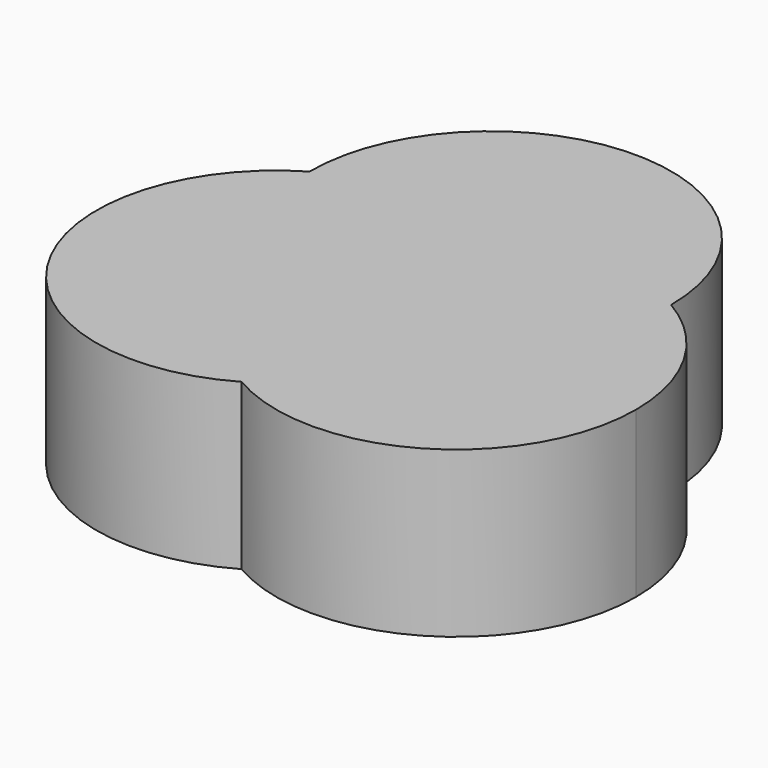
from build123d import *

# Parameters (mm, degrees)
F1_DEPTH = 25.4


with BuildPart() as f1:
    # F0 (on Top) → F1 (new body)
    with BuildSketch(Plane.XY):
        with BuildLine():
            ThreePointArc((-13.8794476694, 23.9851492257), (0.0388587333, 27.7114586585), (13.946659894, 23.9461297245))
            ThreePointArc((13.946659894, 23.9461297245), (13.9466804124, 23.9656394703), (13.9466872518, 23.9851492257))
            ThreePointArc((13.9466872518, 23.9851492257), (-13.9264962423, 51.8112443718), (-41.7054234906, 23.8910522142))
            ThreePointArc((-41.7054234906, 23.8910522142), (-27.805115023, 27.6876127299), (-13.8794476694, 23.9851492257))
        make_face()
        with BuildLine():
            ThreePointArc((-27.7110248308, -0.1598555968), (-24.0455227676, 13.7745884083), (-13.8794476694, 23.9851492257))
            ThreePointArc((-13.8794476694, 23.9851492257), (-27.805115023, 27.6876127299), (-41.7054234906, 23.8910522142))
            ThreePointArc((-41.7054234906, 23.8910522142), (-37.9304241934, 9.9907105841), (-27.7110248308, -0.1598555968))
        make_face()
        with BuildLine():
            ThreePointArc((-0.0241009827, -0.1462235666), (10.192242734, 10.026370419), (13.946659894, 23.9461297245))
            ThreePointArc((13.946659894, 23.9461297245), (0.0388587333, 27.7114586585), (-13.8794476694, 23.9851492257))
            ThreePointArc((-13.8794476694, 23.9851492257), (-3.7365930705, 13.8498078951), (-0.0237148649, 0))
            ThreePointArc((-0.0237148649, 0), (-0.0238113945, -0.0731120382), (-0.0241009827, -0.1462235666))
        make_face()
        with BuildLine():
            ThreePointArc((-0.0237148649, 0), (-3.7365930705, 13.8498078951), (-13.8794476694, 23.9851492257))
            ThreePointArc((-13.8794476694, 23.9851492257), (-24.0455227676, 13.7745884083), (-27.7110248308, -0.1598555968))
            ThreePointArc((-27.7110248308, -0.1598555968), (-13.8657470984, -3.8409823227), (-0.0241009827, -0.1462235666))
            ThreePointArc((-0.0241009827, -0.1462235666), (-0.0238113945, -0.0731120382), (-0.0237148649, 0))
        make_face()
        with BuildLine():
            ThreePointArc((-27.7110248308, -0.1598555968), (-23.9656630374, -13.9130674606), (-13.8794476694, -23.9851492257))
            ThreePointArc((-13.8794476694, -23.9851492257), (-3.7732483133, -13.9130674606), (-0.0241009827, -0.1462235666))
            ThreePointArc((-0.0241009827, -0.1462235666), (-13.8657470984, -3.8409823227), (-27.7110248308, -0.1598555968))
        make_face()
        with BuildLine():
            ThreePointArc((-13.8794476694, -23.9851492257), (13.8438855193, -24.0056927563), (27.7114859036, 0))
            ThreePointArc((27.7114859036, 0), (24.0250818941, 13.810209664), (13.946659894, 23.9461297245))
            ThreePointArc((13.946659894, 23.9461297245), (10.192242734, 10.026370419), (-0.0241009827, -0.1462235666))
            ThreePointArc((-0.0241009827, -0.1462235666), (-3.7732483133, -13.9130674606), (-13.8794476694, -23.9851492257))
        make_face()
        with BuildLine():
            ThreePointArc((-41.7054234906, 23.8910522142), (-51.6497234938, -13.9130674606), (-13.8794476694, -23.9851492257))
            ThreePointArc((-13.8794476694, -23.9851492257), (-23.9656630374, -13.9130674606), (-27.7110248308, -0.1598555968))
            ThreePointArc((-27.7110248308, -0.1598555968), (-37.9304241934, 9.9907105841), (-41.7054234906, 23.8910522142))
        make_face()
    extrude(amount=F1_DEPTH)


solid = f1.part
